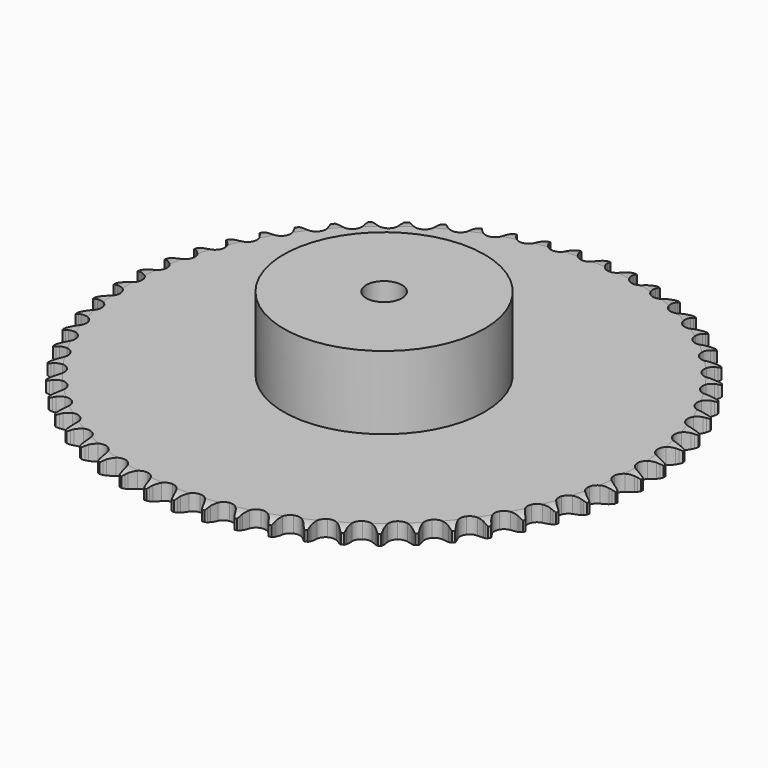
from build123d import *

# Parameters (mm, degrees)
PAD_DEPTH         = 7.2
SKETCH001_R       = 45
PAD001_DEPTH      = 40
SKETCH002_R       = 8
POCKET_DEPTH      = 0.001
POCKET_DEPTH_BACK = 40.001


with BuildPart() as part:
    # Sprocket → Pad (new body)
    with BuildSketch(Plane.XY):
        with BuildLine():
            ThreePointArc((-6.560182, 118.905189), (-5.902758, 117.925471), (-5.423288, 116.847436))
            Line((-5.423288, 116.847436), (-5.010083, 115.649784))
            ThreePointArc((-5.010083, 115.649784), (-4.357623, 114.134023), (-3.488072, 112.731484))
            ThreePointArc((-3.488072, 112.731484), (-1.956919, 111.425579), (0, 110.95624))
            ThreePointArc((0, 110.95624), (1.956919, 111.425579), (3.488072, 112.731484))
            ThreePointArc((3.488072, 112.731484), (4.357623, 114.134023), (5.010083, 115.649784))
            Line((5.010083, 115.649784), (5.423288, 116.847436))
            ThreePointArc((5.423288, 116.847436), (5.902758, 117.925471), (6.560182, 118.905189))
            ThreePointArc((6.560182, 118.905189), (7.105839, 117.859096), (7.463806, 116.734857))
            Line((7.463806, 116.734857), (7.742752, 115.499018))
            ThreePointArc((7.742752, 115.499018), (8.224505, 113.920681), (8.934488, 112.430996))
            ThreePointArc((8.934488, 112.430996), (10.312687, 110.964579), (12.206099, 110.282811))
            ThreePointArc((12.206099, 110.282811), (14.202772, 110.534024), (15.868291, 111.663563))
            Line((15.868291, 111.663563), (17.702102, 114.396718))
            ThreePointArc((17.702102, 114.396718), (17.957011, 114.976911), (18.244551, 115.541645))
            ThreePointArc((18.244551, 115.541645), (18.839704, 116.560392), (19.600915, 117.461841))
            ThreePointArc((19.600915, 117.461841), (20.028181, 116.36207), (20.2603, 115.205276))
            Line((20.2603, 115.205276), (20.4016, 113.946251))
            ThreePointArc((20.4016, 113.946251), (20.7068, 112.324496), (21.248596, 110.765749))
            ThreePointArc((21.248596, 110.765749), (22.457112, 109.156618), (24.264032, 108.270697))
            ThreePointArc((24.264032, 108.270697), (26.276222, 108.300736), (28.055892, 109.240199))
            Line((28.055892, 109.240199), (30.179242, 111.75503))
            ThreePointArc((30.179242, 111.75503), (30.49643, 112.30366), (30.84435, 112.833335))
            ThreePointArc((30.84435, 112.833335), (31.547961, 113.780427), (32.403718, 114.592665))
            ThreePointArc((32.403718, 114.592665), (32.707407, 113.452567), (32.810861, 112.277258))
            Line((32.810861, 112.277258), (32.8128, 111.010331))
            ThreePointArc((32.8128, 111.010331), (32.937741, 109.364844), (33.304774, 107.755956))
            ThreePointArc((33.304774, 107.755956), (34.328938, 106.023645), (36.027432, 104.944325))
            ThreePointArc((36.027432, 104.944325), (38.030715, 104.752823), (39.902931, 105.490806))
            Line((39.902931, 105.490806), (42.290046, 107.756788))
            ThreePointArc((42.290046, 107.756788), (42.665663, 108.267195), (43.06974, 108.755381))
            ThreePointArc((43.06974, 108.755381), (43.873269, 109.619322), (44.813185, 110.33249))
            ThreePointArc((44.813185, 110.33249), (44.989611, 109.165903), (44.963142, 107.986347))
            Line((44.963142, 107.986347), (44.825698, 106.726896))
            ThreePointArc((44.825698, 106.726896), (44.768863, 105.077652), (44.956678, 103.438151))
            ThreePointArc((44.956678, 103.438151), (45.784057, 101.603688), (47.353508, 100.34407))
            ThreePointArc((47.353508, 100.34407), (49.323566, 99.933353), (51.265603, 100.460898))
            Line((51.265603, 100.460898), (53.887507, 102.450525))
            ThreePointArc((53.887507, 102.450525), (54.316993, 102.916513), (54.772322, 103.357284))
            ThreePointArc((54.772322, 103.357284), (55.666014, 104.127586), (56.67868, 104.733028))
            ThreePointArc((56.67868, 104.733028), (56.725701, 103.554113), (56.569633, 102.384628))
            Line((56.569633, 102.384628), (56.294472, 101.14794))
            ThreePointArc((56.294472, 101.14794), (56.056552, 99.514958), (56.062868, 97.864747))
            ThreePointArc((56.062868, 97.864747), (56.68342, 95.950399), (58.104777, 94.525774))
            ThreePointArc((58.104777, 94.525774), (60.017695, 93.900828), (62.00598, 94.21153))
            Line((62.00598, 94.21153), (64.830846, 95.900651))
            ThreePointArc((64.830846, 95.900651), (65.308988, 96.316564), (65.810042, 96.704569))
            ThreePointArc((65.810042, 96.704569), (66.78305, 97.371883), (67.856173, 97.862249))
            ThreePointArc((67.856173, 97.862249), (67.773218, 96.685316), (67.489444, 95.540098))
            Line((67.489444, 95.540098), (67.079908, 94.341186))
            ThreePointArc((67.079908, 94.341186), (66.663791, 92.744288), (66.488532, 91.103398))
            ThreePointArc((66.488532, 91.103398), (66.894723, 89.132403), (68.150733, 87.560064))
            ThreePointArc((68.150733, 87.560064), (69.983292, 86.728474), (71.993689, 86.818562))
            Line((71.993689, 86.818562), (74.987227, 88.186673))
            ThreePointArc((74.987227, 88.186673), (75.508221, 88.547462), (76.048917, 88.877992))
            ThreePointArc((76.048917, 88.877992), (77.089429, 89.434217), (78.209984, 89.803554))
            ThreePointArc((78.209984, 89.803554), (77.99806, 88.64289), (77.590025, 87.53584))
            Line((77.590025, 87.53584), (77.051084, 86.389258))
            ThreePointArc((77.051084, 86.389258), (76.461821, 84.847828), (76.107114, 83.236177))
            ThreePointArc((76.107114, 83.236177), (76.294014, 81.23246), (77.369431, 79.531492))
            ThreePointArc((77.369431, 79.531492), (79.099386, 78.503353), (81.107492, 78.371735))
            Line((81.107492, 78.371735), (84.233364, 79.402228))
            ThreePointArc((84.233364, 79.402228), (84.790886, 79.703513), (85.364661, 79.972557))
            ThreePointArc((85.364661, 79.972557), (86.460048, 80.410941), (87.614432, 80.654766))
            ThreePointArc((87.614432, 80.654766), (87.276111, 79.52446), (86.748768, 78.469016))
            Line((86.748768, 78.469016), (86.086965, 77.388681))
            ThreePointArc((86.086965, 77.388681), (85.331708, 75.921431), (84.801859, 74.358582))
            ThreePointArc((84.801859, 74.358582), (84.7672, 72.346466), (85.648969, 70.537517))
            ThreePointArc((85.648969, 70.537517), (87.25532, 69.325308), (89.236759, 68.973581))
            Line((89.236759, 68.973581), (92.457023, 69.653947))
            ThreePointArc((92.457023, 69.653947), (93.044304, 69.892073), (93.644195, 70.096363))
            ThreePointArc((93.644195, 70.096363), (94.781159, 70.411585), (95.955359, 70.526939))
            ThreePointArc((95.955359, 70.526939), (95.494749, 69.440711), (94.854499, 68.449685))
            Line((94.854499, 68.449685), (94.077866, 67.44871))
            ThreePointArc((94.077866, 67.44871), (93.165784, 66.07345), (92.467225, 64.578374))
            ThreePointArc((92.467225, 64.578374), (92.211426, 62.582283), (92.888844, 60.687311))
            ThreePointArc((92.888844, 60.687311), (94.352093, 59.305748), (96.282813, 58.738181))
            Line((96.282813, 58.738181), (99.558378, 59.060163))
            ThreePointArc((99.558378, 59.060163), (100.168291, 59.232237), (100.787014, 59.369295))
            ThreePointArc((100.787014, 59.369295), (101.951754, 59.557528), (103.131518, 59.54301))
            ThreePointArc((103.131518, 59.54301), (102.554209, 58.514045), (101.808824, 57.599467))
            Line((101.808824, 57.599467), (100.92679, 56.690003))
            ThreePointArc((100.92679, 56.690003), (99.868953, 55.423426), (99.010163, 54.014272))
            ThreePointArc((99.010163, 54.014272), (98.536331, 52.058436), (99.001175, 50.100444))
            ThreePointArc((99.001175, 50.100444), (100.30356, 48.566296), (102.160125, 47.789779))
            Line((102.160125, 47.789779), (105.451229, 47.749467))
            ThreePointArc((105.451229, 47.749467), (106.07637, 47.853402), (106.706415, 47.921563))
            ThreePointArc((106.706415, 47.921563), (107.884794, 47.980523), (109.0558, 47.836309))
            ThreePointArc((109.0558, 47.836309), (108.368801, 46.877099), (107.527329, 46.05007))
            Line((107.527329, 46.05007), (106.550599, 45.243157))
            ThreePointArc((106.550599, 45.243157), (105.359849, 44.100638), (104.351253, 42.79451))
            ThreePointArc((104.351253, 42.79451), (103.665138, 40.90267), (103.911766, 38.905425))
            ThreePointArc((103.911766, 38.905425), (105.037477, 37.237316), (106.797351, 36.261273))
            Line((106.797351, 36.261273), (110.064046, 35.859158))
            ThreePointArc((110.064046, 35.859158), (110.696826, 35.893691), (111.330546, 35.892129))
            ThreePointArc((111.330546, 35.892129), (112.508258, 35.821099), (113.656292, 35.54894))
            ThreePointArc((113.656292, 35.54894), (112.867942, 34.671127), (111.940597, 33.941687))
            Line((111.940597, 33.941687), (110.881028, 33.247119))
            ThreePointArc((110.881028, 33.247119), (109.571819, 32.242527), (108.425659, 31.055281))
            ThreePointArc((108.425659, 31.055281), (107.535591, 29.250401), (107.561008, 27.238147))
            ThreePointArc((107.561008, 27.238147), (108.496381, 25.456324), (110.138201, 24.292605))
            Line((110.138201, 24.292605), (113.340834, 23.533568))
            ThreePointArc((113.340834, 23.533568), (113.973572, 23.49828), (114.603274, 23.427013))
            ThreePointArc((114.603274, 23.427013), (115.766025, 23.226856), (116.877151, 22.830056))
            ThreePointArc((116.877151, 22.830056), (115.997019, 22.044296), (114.995058, 21.421298))
            Line((114.995058, 21.421298), (113.865512, 20.847507))
            ThreePointArc((113.865512, 20.847507), (112.453735, 19.993036), (111.183925, 18.939082))
            ThreePointArc((111.183925, 18.939082), (110.100707, 17.243072), (109.904606, 15.240234))
            ThreePointArc((109.904606, 15.240234), (110.638287, 13.366328), (112.142123, 12.029058))
            Line((112.142123, 12.029058), (115.241818, 10.922311))
            ThreePointArc((115.241818, 10.922311), (115.866834, 10.817631), (116.484874, 10.677524))
            ThreePointArc((116.484874, 10.677524), (117.618549, 10.350671), (118.67928, 9.834046))
            ThreePointArc((118.67928, 9.834046), (117.718049, 9.149876), (116.653634, 8.640883))
            Line((116.653634, 8.640883), (115.467823, 8.194835))
            ThreePointArc((115.467823, 8.194835), (113.970615, 7.500857), (112.592569, 6.592989))
            ThreePointArc((112.592569, 6.592989), (111.32935, 5.026435), (110.91411, 3.057326))
            ThreePointArc((110.91411, 3.057326), (111.437193, 1.114082), (112.784792, -0.380505))
            Line((112.784792, -0.380505), (115.743922, -1.821527))
            ThreePointArc((115.743922, -1.821527), (116.353629, -1.994329), (116.952505, -2.201575))
            ThreePointArc((116.952505, -2.201575), (118.043343, -2.651158), (119.040803, -3.281337))
            ThreePointArc((119.040803, -3.281337), (118.010142, -3.855611), (116.896194, -4.24442))
            Line((116.896194, -4.24442), (115.668511, -4.557312))
            ThreePointArc((115.668511, -4.557312), (114.104047, -5.082373), (112.634491, -5.833134))
            ThreePointArc((112.634491, -5.833134), (111.206606, -7.251216), (110.577268, -9.162694))
            ThreePointArc((110.577268, -9.162694), (110.883403, -11.151687), (112.058406, -12.78545))
            Line((112.058406, -12.78545), (114.841052, -14.543255))
            ThreePointArc((114.841052, -14.543255), (115.428049, -14.78208), (116.000491, -15.05395))
            ThreePointArc((116.000491, -15.05395), (117.03525, -15.620806), (117.957332, -16.356888))
            ThreePointArc((117.957332, -16.356888), (116.869752, -16.814296), (115.719792, -17.078201))
            Line((115.719792, -17.078201), (114.465139, -17.25414))
            ThreePointArc((114.465139, -17.25414), (112.85241, -17.60391), (111.309183, -18.188451))
            ThreePointArc((111.309183, -18.188451), (109.733963, -19.440847), (108.898167, -21.271491))
            ThreePointArc((108.898167, -21.271491), (108.983639, -23.28209), (109.971782, -25.035197))
            Line((109.971782, -25.035197), (112.544167, -27.088447))
            ThreePointArc((112.544167, -27.088447), (113.101328, -27.390397), (113.640388, -27.72359))
            ThreePointArc((113.640388, -27.72359), (114.606508, -28.400838), (115.442019, -29.233889))
            ThreePointArc((115.442019, -29.233889), (114.310721, -29.568878), (113.138709, -29.704677))
            Line((113.138709, -29.704677), (111.872316, -29.741525))
            ThreePointArc((111.872316, -29.741525), (110.230897, -29.911759), (108.632733, -30.322984))
            ThreePointArc((108.632733, -30.322984), (106.9293, -31.394492), (105.89719, -33.122081))
            ThreePointArc((105.89719, -33.122081), (105.760961, -35.129879), (106.550251, -36.981051))
            Line((106.550251, -36.981051), (108.881148, -39.304822))
            ThreePointArc((108.881148, -39.304822), (109.401711, -39.666232), (109.900845, -40.056704))
            ThreePointArc((109.900845, -40.056704), (110.786599, -40.836122), (111.525396, -41.756031))
            ThreePointArc((111.525396, -41.756031), (110.364112, -41.964534), (109.184275, -41.970578))
            Line((109.184275, -41.970578), (107.921515, -41.867888))
            ThreePointArc((107.921515, -41.867888), (106.271331, -41.856519), (104.637628, -42.089438))
            ThreePointArc((104.637628, -42.089438), (102.826659, -42.967051), (101.610765, -44.570614))
            ThreePointArc((101.610765, -44.570614), (101.254488, -46.55124), (101.835343, -48.478004))
            Line((101.835343, -48.478004), (103.89646, -51.04409))
            ThreePointArc((103.89646, -51.04409), (104.374105, -51.460572), (104.827255, -51.903583))
            ThreePointArc((104.827255, -51.903583), (105.62189, -52.775711), (106.255005, -53.77131))
            ThreePointArc((106.255005, -53.77131), (105.077833, -53.850797), (103.904492, -53.727012))
            Line((103.904492, -53.727012), (102.660692, -53.486033))
            ThreePointArc((102.660692, -53.486033), (101.021775, -53.293199), (99.372364, -53.344983))
            ThreePointArc((99.372364, -53.344983), (97.475842, -54.018048), (96.090922, -55.47812))
            ThreePointArc((96.090922, -55.47812), (95.518923, -57.407532), (95.884293, -59.3865))
            Line((95.884293, -59.3865), (97.650609, -62.163751))
            ThreePointArc((97.650609, -62.163751), (98.079539, -62.630251), (98.481204, -63.120423))
            ThreePointArc((98.481204, -63.120423), (99.175075, -64.074674), (99.694823, -65.133879))
            ThreePointArc((99.694823, -65.133879), (98.516052, -65.083385), (97.363449, -64.831274))
            Line((97.363449, -64.831274), (96.153708, -64.454929))
            ThreePointArc((96.153708, -64.454929), (94.545951, -64.082971), (92.900855, -63.952992))
            ThreePointArc((92.900855, -63.952992), (90.9418, -64.413339), (89.404666, -65.712197))
            ThreePointArc((89.404666, -65.712197), (88.623887, -67.566973), (88.769337, -69.574125))
            Line((88.769337, -69.574125), (90.219412, -72.528829))
            ThreePointArc((90.219412, -72.528829), (90.59442, -73.039684), (90.939724, -73.571067))
            ThreePointArc((90.939724, -73.571067), (91.524408, -74.595858), (91.924481, -75.70581))
            ThreePointArc((91.924481, -75.70581), (90.758418, -75.525948), (89.640546, -75.148572))
            Line((89.640546, -75.148572), (88.479548, -74.641429))
            ThreePointArc((88.479548, -74.641429), (86.922467, -74.094863), (85.301655, -73.784699))
            ThreePointArc((85.301655, -73.784699), (83.303848, -74.026739), (81.633159, -75.148616))
            ThreePointArc((81.633159, -75.148616), (80.653077, -76.906244), (80.576841, -78.917214))
            Line((80.576841, -78.917214), (81.693074, -82.013505))
            ThreePointArc((81.693074, -82.013505), (82.009608, -82.562513), (82.294359, -83.128658))
            ThreePointArc((82.294359, -83.128658), (82.76276, -84.211549), (83.0383, -85.358776))
            ThreePointArc((83.0383, -85.358776), (81.899101, -85.051729), (80.829528, -84.553668))
            Line((80.829528, -84.553668), (79.731366, -83.921884))
            ThreePointArc((79.731366, -83.921884), (78.243863, -83.207343), (76.667008, -82.720759))
            ThreePointArc((76.667008, -82.720759), (74.654701, -82.741555), (72.870735, -83.672834))
            ThreePointArc((72.870735, -83.672834), (71.703249, -85.311977), (71.406252, -87.302355))
            Line((71.406252, -87.302355), (72.175093, -90.502649))
            ThreePointArc((72.175093, -90.502649), (72.42931, -91.083146), (72.650052, -91.677179))
            ThreePointArc((72.650052, -91.677179), (72.996483, -92.805026), (73.144147, -93.975602))
            ThreePointArc((73.144147, -93.975602), (72.04564, -93.545097), (71.037348, -92.932397))
            Line((71.037348, -92.932397), (70.015354, -92.183641))
            ThreePointArc((70.015354, -92.183641), (68.615484, -91.309799), (67.101728, -90.652701))
            ThreePointArc((67.101728, -90.652701), (65.099346, -90.452001), (63.223759, -91.181376))
            ThreePointArc((63.223759, -91.181376), (61.88304, -92.682138), (61.368888, -94.627764))
            Line((61.368888, -94.627764), (61.781003, -97.893212))
            ThreePointArc((61.781003, -97.893212), (61.969818, -98.498152), (62.123872, -99.112864))
            ThreePointArc((62.123872, -99.112864), (62.344128, -100.271976), (62.362123, -101.451691))
            ThreePointArc((62.362123, -101.451691), (61.317642, -100.902954), (60.382872, -100.183053))
            Line((60.382872, -100.183053), (59.44945, -99.326413))
            ThreePointArc((59.44945, -99.326413), (58.154206, -98.303878), (56.721923, -97.484242))
            ThreePointArc((56.721923, -97.484242), (54.753773, -97.064481), (52.809333, -97.5831))
            ThreePointArc((52.809333, -97.5831), (51.311655, -98.927263), (50.586588, -100.804519))
            Line((50.586588, -100.804519), (50.636976, -104.095485))
            ThreePointArc((50.636976, -104.095485), (50.758097, -104.717525), (50.843593, -105.345453))
            ThreePointArc((50.843593, -105.345453), (50.935, -106.521759), (50.823107, -107.696294))
            ThreePointArc((50.823107, -107.696294), (49.845331, -107.035986), (48.99543, -106.217622))
            Line((48.99543, -106.217622), (48.16191, -105.263497))
            ThreePointArc((48.16191, -105.263497), (46.987015, -104.10468), (45.653592, -103.132457))
            ThreePointArc((45.653592, -103.132457), (43.743564, -102.498731), (41.753873, -102.800298))
            ThreePointArc((41.753873, -102.800298), (40.117415, -103.971545), (39.190236, -105.757645))
            Line((39.190236, -105.757645), (38.878285, -109.03418))
            ThreePointArc((38.878285, -109.03418), (38.930241, -109.665768), (38.946141, -110.29929))
            ThreePointArc((38.946141, -110.29929), (38.90759, -111.478513), (38.667167, -112.63361))
            ThreePointArc((38.667167, -112.63361), (37.767965, -111.869747), (37.013249, -110.962853))
            Line((37.013249, -110.962853), (36.28975, -109.922825))
            ThreePointArc((36.28975, -109.922825), (35.249465, -108.641793), (34.031087, -107.528783))
            ThreePointArc((34.031087, -107.528783), (32.202367, -106.688785), (30.191577, -106.769639))
            ThreePointArc((30.191577, -106.769639), (28.436205, -107.753754), (27.318167, -109.427016))
            Line((27.318167, -109.427016), (26.647664, -112.649347))
            ThreePointArc((26.647664, -112.649347), (26.629825, -113.282818), (26.575935, -113.914244))
            ThreePointArc((26.575935, -113.914244), (26.407894, -115.082069), (26.041861, -116.203707))
            ThreePointArc((26.041861, -116.203707), (25.232147, -115.34556), (24.581778, -114.361145))
            Line((24.581778, -114.361145), (23.977081, -113.247839))
            ThreePointArc((23.977081, -113.247839), (23.084034, -111.860142), (21.995491, -110.619855))
            ThreePointArc((21.995491, -110.619855), (20.270277, -109.583781), (18.262797, -109.442941))
            ThreePointArc((18.262797, -109.442941), (16.409818, -110.227978), (15.114493, -111.768091))
            Line((15.114493, -111.768091), (14.093577, -114.897104))
            ThreePointArc((14.093577, -114.897104), (14.006158, -115.524767), (13.883134, -116.146433))
            ThreePointArc((13.883134, -116.146433), (13.587642, -117.288684), (13.100441, -118.363248))
            ThreePointArc((13.100441, -118.363248), (12.390045, -117.421234), (11.851917, -116.371248))
            Line((11.851917, -116.371248), (11.373363, -115.198177))
            ThreePointArc((11.373363, -115.198177), (10.638394, -113.72066), (9.6929, -112.368153))
            ThreePointArc((9.6929, -112.368153), (8.092134, -111.148579), (6.112331, -110.787754))
            ThreePointArc((6.112331, -110.787754), (4.184238, -111.364184), (2.72735, -112.752453))
            Line((2.72735, -112.752453), (1.368412, -115.750166))
            ThreePointArc((1.368412, -115.750166), (1.212476, -116.364403), (1.02181, -116.968762))
            ThreePointArc((1.02181, -116.968762), (0.602455, -118.071573), (0, -119.086019))
            ThreePointArc((0, -119.086019), (-0.602455, -118.071573), (-1.02181, -116.968762))
            Line((-1.02181, -116.968762), (-1.368412, -115.750166))
            ThreePointArc((-1.368412, -115.750166), (-1.936381, -114.200764), (-2.72735, -112.752453))
            ThreePointArc((-2.72735, -112.752453), (-4.184238, -111.364184), (-6.112331, -110.787754))
            ThreePointArc((-6.112331, -110.787754), (-8.092134, -111.148579), (-9.6929, -112.368153))
            Line((-9.6929, -112.368153), (-11.373363, -115.198177))
            ThreePointArc((-11.373363, -115.198177), (-11.595924, -115.791532), (-11.851917, -116.371248))
            ThreePointArc((-11.851917, -116.371248), (-12.390045, -117.421234), (-13.100441, -118.363248))
            ThreePointArc((-13.100441, -118.363248), (-13.587642, -117.288684), (-13.883134, -116.146433))
            Line((-13.883134, -116.146433), (-14.093577, -114.897104))
            ThreePointArc((-14.093577, -114.897104), (-14.487652, -113.294625), (-15.114493, -111.768091))
            ThreePointArc((-15.114493, -111.768091), (-16.409818, -110.227978), (-18.262797, -109.442941))
            ThreePointArc((-18.262797, -109.442941), (-20.270277, -109.583781), (-21.995491, -110.619855))
            Line((-21.995491, -110.619855), (-23.977081, -113.247839))
            ThreePointArc((-23.977081, -113.247839), (-24.263565, -113.813109), (-24.581778, -114.361145))
            ThreePointArc((-24.581778, -114.361145), (-25.232147, -115.34556), (-26.041861, -116.203707))
            ThreePointArc((-26.041861, -116.203707), (-26.407894, -115.082069), (-26.575935, -113.914244))
            Line((-26.575935, -113.914244), (-26.647664, -112.649347))
            ThreePointArc((-26.647664, -112.649347), (-26.863061, -111.013242), (-27.318167, -109.427016))
            ThreePointArc((-27.318167, -109.427016), (-28.436205, -107.753754), (-30.191577, -106.769639))
            ThreePointArc((-30.191577, -106.769639), (-32.202367, -106.688785), (-34.031087, -107.528783))
            Line((-34.031087, -107.528783), (-36.28975, -109.922825))
            ThreePointArc((-36.28975, -109.922825), (-36.636679, -110.453149), (-37.013249, -110.962853))
            ThreePointArc((-37.013249, -110.962853), (-37.767965, -111.869747), (-38.667167, -112.63361))
            ThreePointArc((-38.667167, -112.63361), (-38.90759, -111.478513), (-38.946141, -110.29929))
            Line((-38.946141, -110.29929), (-38.878285, -109.03418))
            ThreePointArc((-38.878285, -109.03418), (-38.91239, -107.384309), (-39.190236, -105.757645))
            ThreePointArc((-39.190236, -105.757645), (-40.117415, -103.971545), (-41.753873, -102.800298))
            ThreePointArc((-41.753873, -102.800298), (-43.743564, -102.498731), (-45.653592, -103.132457))
            Line((-45.653592, -103.132457), (-48.16191, -105.263497))
            ThreePointArc((-48.16191, -105.263497), (-48.565073, -105.752437), (-48.99543, -106.217622))
            ThreePointArc((-48.99543, -106.217622), (-49.845331, -107.035986), (-50.823107, -107.696294))
            ThreePointArc((-50.823107, -107.696294), (-50.935, -106.521759), (-50.843593, -105.345453))
            Line((-50.843593, -105.345453), (-50.636976, -104.095485))
            ThreePointArc((-50.636976, -104.095485), (-50.489375, -102.451876), (-50.586588, -100.804519))
            ThreePointArc((-50.586588, -100.804519), (-51.311655, -98.927263), (-52.809333, -97.5831))
            ThreePointArc((-52.809333, -97.5831), (-54.753773, -97.064481), (-56.721923, -97.484242))
            Line((-56.721923, -97.484242), (-59.44945, -99.326413))
            ThreePointArc((-59.44945, -99.326413), (-59.903954, -99.768034), (-60.382872, -100.183053))
            ThreePointArc((-60.382872, -100.183053), (-61.317642, -100.902954), (-62.362123, -101.451691))
            ThreePointArc((-62.362123, -101.451691), (-62.344128, -100.271976), (-62.123872, -99.112864))
            Line((-62.123872, -99.112864), (-61.781003, -97.893212))
            ThreePointArc((-61.781003, -97.893212), (-61.453488, -96.275817), (-61.368888, -94.627764))
            ThreePointArc((-61.368888, -94.627764), (-61.88304, -92.682138), (-63.223759, -91.181376))
            ThreePointArc((-63.223759, -91.181376), (-65.099346, -90.452001), (-67.101728, -90.652701))
            Line((-67.101728, -90.652701), (-70.015354, -92.183641))
            ThreePointArc((-70.015354, -92.183641), (-70.515681, -92.572583), (-71.037348, -92.932397))
            ThreePointArc((-71.037348, -92.932397), (-72.04564, -93.545097), (-73.144147, -93.975602))
            ThreePointArc((-73.144147, -93.975602), (-72.996483, -92.805026), (-72.650052, -91.677179))
            Line((-72.650052, -91.677179), (-72.175093, -90.502649))
            ThreePointArc((-72.175093, -90.502649), (-71.671638, -88.931099), (-71.406252, -87.302355))
            ThreePointArc((-71.406252, -87.302355), (-71.703249, -85.311977), (-72.870735, -83.672834))
            ThreePointArc((-72.870735, -83.672834), (-74.654701, -82.741555), (-76.667008, -82.720759))
            Line((-76.667008, -82.720759), (-79.731366, -83.921884))
            ThreePointArc((-79.731366, -83.921884), (-80.271444, -84.253425), (-80.829528, -84.553668))
            ThreePointArc((-80.829528, -84.553668), (-81.899101, -85.051729), (-83.0383, -85.358776))
            ThreePointArc((-83.0383, -85.358776), (-82.76276, -84.211549), (-82.294359, -83.128658))
            Line((-82.294359, -83.128658), (-81.693074, -82.013505))
            ThreePointArc((-81.693074, -82.013505), (-81.019791, -80.506878), (-80.576841, -78.917214))
            ThreePointArc((-80.576841, -78.917214), (-80.653077, -76.906244), (-81.633159, -75.148616))
            ThreePointArc((-81.633159, -75.148616), (-83.303848, -74.026739), (-85.301655, -73.784699))
            Line((-85.301655, -73.784699), (-88.479548, -74.641429))
            ThreePointArc((-88.479548, -74.641429), (-89.05282, -74.911545), (-89.640546, -75.148572))
            ThreePointArc((-89.640546, -75.148572), (-90.758418, -75.525948), (-91.924481, -75.70581))
            ThreePointArc((-91.924481, -75.70581), (-91.524408, -74.595858), (-90.939724, -73.571067))
            Line((-90.939724, -73.571067), (-90.219412, -72.528829))
            ThreePointArc((-90.219412, -72.528829), (-89.384475, -71.105413), (-88.769337, -69.574125))
            ThreePointArc((-88.769337, -69.574125), (-88.623887, -67.566973), (-89.404666, -65.712197))
            ThreePointArc((-89.404666, -65.712197), (-90.9418, -64.413339), (-92.900855, -63.952992))
            Line((-92.900855, -63.952992), (-96.153708, -64.454929))
            ThreePointArc((-96.153708, -64.454929), (-96.753216, -64.66034), (-97.363449, -64.831274))
            ThreePointArc((-97.363449, -64.831274), (-98.516052, -65.083385), (-99.694823, -65.133879))
            ThreePointArc((-99.694823, -65.133879), (-99.175075, -64.074674), (-98.481204, -63.120423))
            Line((-98.481204, -63.120423), (-97.650609, -62.163751))
            ThreePointArc((-97.650609, -62.163751), (-96.664151, -60.840824), (-95.884293, -59.3865))
            ThreePointArc((-95.884293, -59.3865), (-95.518923, -57.407532), (-96.090922, -55.47812))
            ThreePointArc((-96.090922, -55.47812), (-97.475842, -54.018048), (-99.372364, -53.344983))
            Line((-99.372364, -53.344983), (-102.660692, -53.486033))
            ThreePointArc((-102.660692, -53.486033), (-103.279158, -53.624247), (-103.904492, -53.727012))
            ThreePointArc((-103.904492, -53.727012), (-105.077833, -53.850797), (-106.255005, -53.77131))
            ThreePointArc((-106.255005, -53.77131), (-105.62189, -52.775711), (-104.827255, -51.903583))
            Line((-104.827255, -51.903583), (-103.89646, -51.04409))
            ThreePointArc((-103.89646, -51.04409), (-102.770456, -49.83771), (-101.835343, -48.478004))
            ThreePointArc((-101.835343, -48.478004), (-101.254488, -46.55124), (-101.610765, -44.570614))
            ThreePointArc((-101.610765, -44.570614), (-102.826659, -42.967051), (-104.637628, -42.089438))
            Line((-104.637628, -42.089438), (-107.921515, -41.867888))
            ThreePointArc((-107.921515, -41.867888), (-108.551432, -41.937227), (-109.184275, -41.970578))
            ThreePointArc((-109.184275, -41.970578), (-110.364112, -41.964534), (-111.525396, -41.756031))
            ThreePointArc((-111.525396, -41.756031), (-110.786599, -40.836122), (-109.900845, -40.056704))
            Line((-109.900845, -40.056704), (-108.881148, -39.304822))
            ThreePointArc((-108.881148, -39.304822), (-107.629267, -38.229634), (-106.550251, -36.981051))
            ThreePointArc((-106.550251, -36.981051), (-105.760961, -35.129879), (-105.89719, -33.122081))
            ThreePointArc((-105.89719, -33.122081), (-106.9293, -31.394492), (-108.632733, -30.322984))
            Line((-108.632733, -30.322984), (-111.872316, -29.741525))
            ThreePointArc((-111.872316, -29.741525), (-112.506038, -29.741147), (-113.138709, -29.704677))
            ThreePointArc((-113.138709, -29.704677), (-114.310721, -29.568878), (-115.442019, -29.233889))
            ThreePointArc((-115.442019, -29.233889), (-114.606508, -28.400838), (-113.640388, -27.72359))
            Line((-113.640388, -27.72359), (-112.544167, -27.088447))
            ThreePointArc((-112.544167, -27.088447), (-111.181604, -26.157502), (-109.971782, -25.035197))
            ThreePointArc((-109.971782, -25.035197), (-108.983639, -23.28209), (-108.898167, -21.271491))
            ThreePointArc((-108.898167, -21.271491), (-109.733963, -19.440847), (-111.309183, -18.188451))
            Line((-111.309183, -18.188451), (-114.465139, -17.25414))
            ThreePointArc((-114.465139, -17.25414), (-115.094973, -17.184049), (-115.719792, -17.078201))
            ThreePointArc((-115.719792, -17.078201), (-116.869752, -16.814296), (-117.957332, -16.356888))
            ThreePointArc((-117.957332, -16.356888), (-117.03525, -15.620806), (-116.000491, -15.05395))
            Line((-116.000491, -15.05395), (-114.841052, -14.543255))
            ThreePointArc((-114.841052, -14.543255), (-113.384347, -13.767853), (-112.058406, -12.78545))
            ThreePointArc((-112.058406, -12.78545), (-110.883403, -11.151687), (-110.577268, -9.162694))
            ThreePointArc((-110.577268, -9.162694), (-111.206606, -7.251216), (-112.634491, -5.833134))
            Line((-112.634491, -5.833134), (-115.668511, -4.557312))
            ThreePointArc((-115.668511, -4.557312), (-116.286811, -4.418361), (-116.896194, -4.24442))
            ThreePointArc((-116.896194, -4.24442), (-118.010142, -3.855611), (-119.040803, -3.281337))
            ThreePointArc((-119.040803, -3.281337), (-118.043343, -2.651158), (-116.952505, -2.201575))
            Line((-116.952505, -2.201575), (-115.743922, -1.821527))
            ThreePointArc((-115.743922, -1.821527), (-114.210758, -1.211081), (-112.784792, -0.380505))
            ThreePointArc((-112.784792, -0.380505), (-111.437193, 1.114082), (-110.91411, 3.057326))
            ThreePointArc((-110.91411, 3.057326), (-111.32935, 5.026435), (-112.592569, 6.592989))
            Line((-112.592569, 6.592989), (-115.467823, 8.194835))
            ThreePointArc((-115.467823, 8.194835), (-116.067085, 8.400961), (-116.653634, 8.640883))
            ThreePointArc((-116.653634, 8.640883), (-117.718049, 9.149876), (-118.67928, 9.834046))
            ThreePointArc((-118.67928, 9.834046), (-117.618549, 10.350671), (-116.484874, 10.677524))
            Line((-116.484874, 10.677524), (-115.241818, 10.922311))
            ThreePointArc((-115.241818, 10.922311), (-113.650805, 11.360392), (-112.142123, 12.029058))
            ThreePointArc((-112.142123, 12.029058), (-110.638287, 13.366328), (-109.904606, 15.240234))
            ThreePointArc((-109.904606, 15.240234), (-110.100707, 17.243072), (-111.183925, 18.939082))
            Line((-111.183925, 18.939082), (-113.865512, 20.847507))
            ThreePointArc((-113.865512, 20.847507), (-114.438462, 21.118306), (-114.995058, 21.421298))
            ThreePointArc((-114.995058, 21.421298), (-115.997019, 22.044296), (-116.877151, 22.830056))
            ThreePointArc((-116.877151, 22.830056), (-115.766025, 23.226856), (-114.603274, 23.427013))
            Line((-114.603274, 23.427013), (-113.340834, 23.533568))
            ThreePointArc((-113.340834, 23.533568), (-111.711285, 23.793965), (-110.138201, 24.292605))
            ThreePointArc((-110.138201, 24.292605), (-108.496381, 25.456324), (-107.561008, 27.238147))
            ThreePointArc((-107.561008, 27.238147), (-107.535591, 29.250401), (-108.425659, 31.055281))
            Line((-108.425659, 31.055281), (-110.881028, 33.247119))
            ThreePointArc((-110.881028, 33.247119), (-111.42071, 33.579304), (-111.940597, 33.941687))
            ThreePointArc((-111.940597, 33.941687), (-112.867942, 34.671127), (-113.656292, 35.54894))
            ThreePointArc((-113.656292, 35.54894), (-112.508258, 35.821099), (-111.330546, 35.892129))
            Line((-111.330546, 35.892129), (-110.064046, 35.859158))
            ThreePointArc((-110.064046, 35.859158), (-108.415742, 35.938711), (-106.797351, 36.261273))
            ThreePointArc((-106.797351, 36.261273), (-105.037477, 37.237316), (-103.911766, 38.905425))
            ThreePointArc((-103.911766, 38.905425), (-103.665138, 40.90267), (-104.351253, 42.79451))
            Line((-104.351253, 42.79451), (-106.550599, 45.243157))
            ThreePointArc((-106.550599, 45.243157), (-107.050462, 45.632695), (-107.527329, 46.05007))
            ThreePointArc((-107.527329, 46.05007), (-108.368801, 46.877099), (-109.0558, 47.836309))
            ThreePointArc((-109.0558, 47.836309), (-107.884794, 47.980523), (-106.706415, 47.921563))
            Line((-106.706415, 47.921563), (-105.451229, 47.749467))
            ThreePointArc((-105.451229, 47.749467), (-103.804178, 47.647211), (-102.160125, 47.789779))
            ThreePointArc((-102.160125, 47.789779), (-100.30356, 48.566296), (-99.001175, 50.100444))
            ThreePointArc((-99.001175, 50.100444), (-98.536331, 52.058436), (-99.010163, 54.014272))
            Line((-99.010163, 54.014272), (-100.92679, 56.690003))
            ThreePointArc((-100.92679, 56.690003), (-101.380767, 57.132166), (-101.808824, 57.599467))
            ThreePointArc((-101.808824, 57.599467), (-102.554209, 58.514045), (-103.131518, 59.54301))
            ThreePointArc((-103.131518, 59.54301), (-101.951754, 59.557528), (-100.787014, 59.369295))
            Line((-100.787014, 59.369295), (-99.558378, 59.060163))
            ThreePointArc((-99.558378, 59.060163), (-97.932572, 58.777337), (-96.282813, 58.738181))
            ThreePointArc((-96.282813, 58.738181), (-94.352093, 59.305748), (-92.888844, 60.687311))
            ThreePointArc((-92.888844, 60.687311), (-92.211426, 62.582283), (-92.467225, 64.578374))
            Line((-92.467225, 64.578374), (-94.077866, 67.44871))
            ThreePointArc((-94.077866, 67.44871), (-94.480447, 67.93813), (-94.854499, 68.449685))
            ThreePointArc((-94.854499, 68.449685), (-95.494749, 69.440711), (-95.955359, 70.526939))
            ThreePointArc((-95.955359, 70.526939), (-94.781159, 70.411585), (-93.644195, 70.096363))
            Line((-93.644195, 70.096363), (-92.457023, 69.653947))
            ThreePointArc((-92.457023, 69.653947), (-90.872197, 69.193987), (-89.236759, 68.973581))
            ThreePointArc((-89.236759, 68.973581), (-87.25532, 69.325308), (-85.648969, 70.537517))
            ThreePointArc((-85.648969, 70.537517), (-84.7672, 72.346466), (-84.801859, 74.358582))
            Line((-84.801859, 74.358582), (-86.086965, 77.388681))
            ThreePointArc((-86.086965, 77.388681), (-86.433261, 77.919418), (-86.748768, 78.469016))
            ThreePointArc((-86.748768, 78.469016), (-87.276111, 79.52446), (-87.614432, 80.654766))
            ThreePointArc((-87.614432, 80.654766), (-86.460048, 80.410941), (-85.364661, 79.972557))
            Line((-85.364661, 79.972557), (-84.233364, 79.402228))
            ThreePointArc((-84.233364, 79.402228), (-82.708757, 78.770715), (-81.107492, 78.371735))
            ThreePointArc((-81.107492, 78.371735), (-79.099386, 78.503353), (-77.369431, 79.531492))
            ThreePointArc((-77.369431, 79.531492), (-76.294014, 81.23246), (-76.107114, 83.236177))
            Line((-76.107114, 83.236177), (-77.051084, 86.389258))
            ThreePointArc((-77.051084, 86.389258), (-77.336894, 86.954869), (-77.590025, 87.53584))
            ThreePointArc((-77.590025, 87.53584), (-77.99806, 88.64289), (-78.209984, 89.803554))
            ThreePointArc((-78.209984, 89.803554), (-77.089429, 89.434217), (-76.048917, 88.877992))
            Line((-76.048917, 88.877992), (-74.987227, 88.186673))
            ThreePointArc((-74.987227, 88.186673), (-73.541345, 87.391273), (-71.993689, 86.818562))
            ThreePointArc((-71.993689, 86.818562), (-69.983292, 86.728474), (-68.150733, 87.560064))
            ThreePointArc((-68.150733, 87.560064), (-66.894723, 89.132403), (-66.488532, 91.103398))
            Line((-66.488532, 91.103398), (-67.079908, 94.341186))
            ThreePointArc((-67.079908, 94.341186), (-67.30176, 94.934806), (-67.489444, 95.540098))
            ThreePointArc((-67.489444, 95.540098), (-67.773218, 96.685316), (-67.856173, 97.862249))
            ThreePointArc((-67.856173, 97.862249), (-66.78305, 97.371883), (-65.810042, 96.704569))
            Line((-65.810042, 96.704569), (-64.830846, 95.900651))
            ThreePointArc((-64.830846, 95.900651), (-63.48124, 94.95102), (-62.00598, 94.21153))
            ThreePointArc((-62.00598, 94.21153), (-60.017695, 93.900828), (-58.104777, 94.525774))
            ThreePointArc((-58.104777, 94.525774), (-56.68342, 95.950399), (-56.062868, 97.864747))
            Line((-56.062868, 97.864747), (-56.294472, 101.14794))
            ThreePointArc((-56.294472, 101.14794), (-56.449675, 101.762363), (-56.569633, 102.384628))
            ThreePointArc((-56.569633, 102.384628), (-56.725701, 103.554113), (-56.67868, 104.733028))
            ThreePointArc((-56.67868, 104.733028), (-55.666014, 104.127586), (-54.772322, 103.357284))
            Line((-54.772322, 103.357284), (-53.887507, 102.450525))
            ThreePointArc((-53.887507, 102.450525), (-52.650559, 101.35819), (-51.265603, 100.460898))
            ThreePointArc((-51.265603, 100.460898), (-49.323566, 99.933353), (-47.353508, 100.34407))
            ThreePointArc((-47.353508, 100.34407), (-45.784057, 101.603688), (-44.956678, 103.438151))
            Line((-44.956678, 103.438151), (-44.825698, 106.726896))
            ThreePointArc((-44.825698, 106.726896), (-44.912367, 107.354663), (-44.963142, 107.986347))
            ThreePointArc((-44.963142, 107.986347), (-44.989611, 109.165903), (-44.813185, 110.33249))
            ThreePointArc((-44.813185, 110.33249), (-43.873269, 109.619322), (-43.06974, 108.755381))
            Line((-43.06974, 108.755381), (-42.290046, 107.756788))
            ThreePointArc((-42.290046, 107.756788), (-41.180772, 106.535008), (-39.902931, 105.490806))
            ThreePointArc((-39.902931, 105.490806), (-38.030715, 104.752823), (-36.027432, 104.944325))
            ThreePointArc((-36.027432, 104.944325), (-34.328938, 106.023645), (-33.304774, 107.755956))
            Line((-33.304774, 107.755956), (-32.8128, 111.010331))
            ThreePointArc((-32.8128, 111.010331), (-32.829884, 111.643822), (-32.810861, 112.277258))
            ThreePointArc((-32.810861, 112.277258), (-32.707407, 113.452567), (-32.403718, 114.592665))
            ThreePointArc((-32.403718, 114.592665), (-31.547961, 113.780427), (-30.84435, 112.833335))
            Line((-30.84435, 112.833335), (-30.179242, 111.75503))
            ThreePointArc((-30.179242, 111.75503), (-29.211106, 110.418637), (-28.055892, 109.240199))
            ThreePointArc((-28.055892, 109.240199), (-26.276222, 108.300736), (-24.264032, 108.270697))
            ThreePointArc((-24.264032, 108.270697), (-22.457112, 109.156618), (-21.248596, 110.765749))
            Line((-21.248596, 110.765749), (-20.4016, 113.946251))
            ThreePointArc((-20.4016, 113.946251), (-20.348891, 114.577777), (-20.2603, 115.205276))
            ThreePointArc((-20.2603, 115.205276), (-20.028181, 116.36207), (-19.600915, 117.461841))
            ThreePointArc((-19.600915, 117.461841), (-18.839704, 116.560392), (-18.244551, 115.541645))
            Line((-18.244551, 115.541645), (-17.702102, 114.396718))
            ThreePointArc((-17.702102, 114.396718), (-16.886856, 112.961932), (-15.868291, 111.663563))
            ThreePointArc((-15.868291, 111.663563), (-14.202772, 110.534024), (-12.206099, 110.282811))
            ThreePointArc((-12.206099, 110.282811), (-10.312687, 110.964579), (-8.934488, 112.430996))
            Line((-8.934488, 112.430996), (-7.742752, 115.499018))
            ThreePointArc((-7.742752, 115.499018), (-7.62089, 116.120913), (-7.463806, 116.734857))
            ThreePointArc((-7.463806, 116.734857), (-7.105839, 117.859096), (-6.560182, 118.905189))
        make_face()
    extrude(amount=PAD_DEPTH)

    # Sketch → Groove (revolve, cut)
    with BuildSketch(Plane.XZ):
        with BuildLine():
            Line((112.533431, 0), (118.2, 0))
            Line((123.866569, 0), (118.2, 0))
            Line((123.866569, 7.2), (123.866569, 0))
            Line((118.2, 7.2), (123.866569, 7.2))
            Line((112.533431, 7.2), (118.2, 7.2))
            ThreePointArc((118.2, 5.9), (115.44032, 6.870833), (112.533431, 7.2))
            Line((118.2, 1.3), (118.2, 5.9))
            ThreePointArc((112.533431, 0), (115.44032, 0.329167), (118.2, 1.3))
        make_face()
    revolve(axis=Axis((0, 0, 0), (0, 0, 1)), mode=Mode.SUBTRACT)

    # Sketch001 → Pad001 (join)
    with BuildSketch(Plane.XY):
        Circle(SKETCH001_R)
    extrude(amount=PAD001_DEPTH)

    # Sketch002 → Pocket (cut, two sides)
    with BuildSketch(Plane.XY) as pocket_sk:
        Circle(SKETCH002_R)
    extrude(amount=-POCKET_DEPTH, mode=Mode.SUBTRACT)
    extrude(pocket_sk.sketch, amount=POCKET_DEPTH_BACK, mode=Mode.SUBTRACT)


solid = part.part
